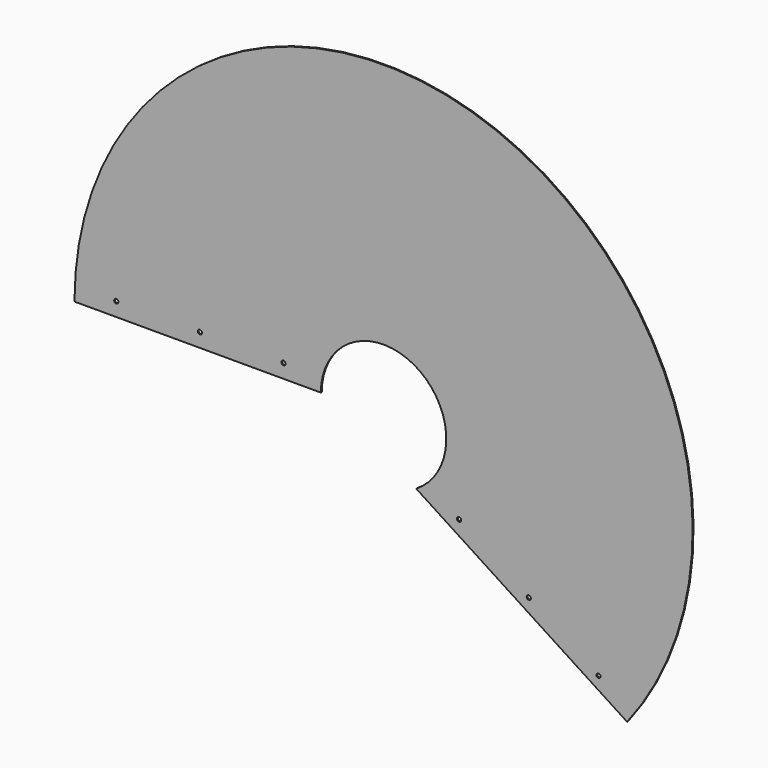
from build123d import *

# Parameters (mm, degrees)
F3_DEPTH = 0.8
F4_R     = 1.5
F5_DEPTH = 25


with BuildPart() as f3:
    # F2 (on Front) → F3 (new body)
    with BuildSketch(Plane.XZ):
        with BuildLine():
            ThreePointArc((-45, 0), (22.035907, 39.235428), (23.418613, -38.426145))
            Line((23.418613, -38.426145), (174.780785, -136.553715))
            ThreePointArc((174.780785, -136.553715), (72.211017, 209.71602), (-221.8, 0))
            Line((-221.8, 0), (-45, 0))
        make_face()
    extrude(amount=F3_DEPTH)

    # F4 (on face) → F5 (cut)
    with BuildSketch(Plane.XZ.offset(0.8)):
        with Locations((-191.8, 10)):
            Circle(F4_R)
        with Locations((-131.8, 10)):
            Circle(F4_R)
        with Locations((-71.8, 10)):
            Circle(F4_R)
        with Locations((154.231854, -114.075886)):
            Circle(F4_R)
        with Locations((104.198704, -80.959667)):
            Circle(F4_R)
        with Locations((54.165555, -47.843448)):
            Circle(F4_R)
    extrude(amount=-F5_DEPTH, mode=Mode.SUBTRACT)


solid = f3.part
